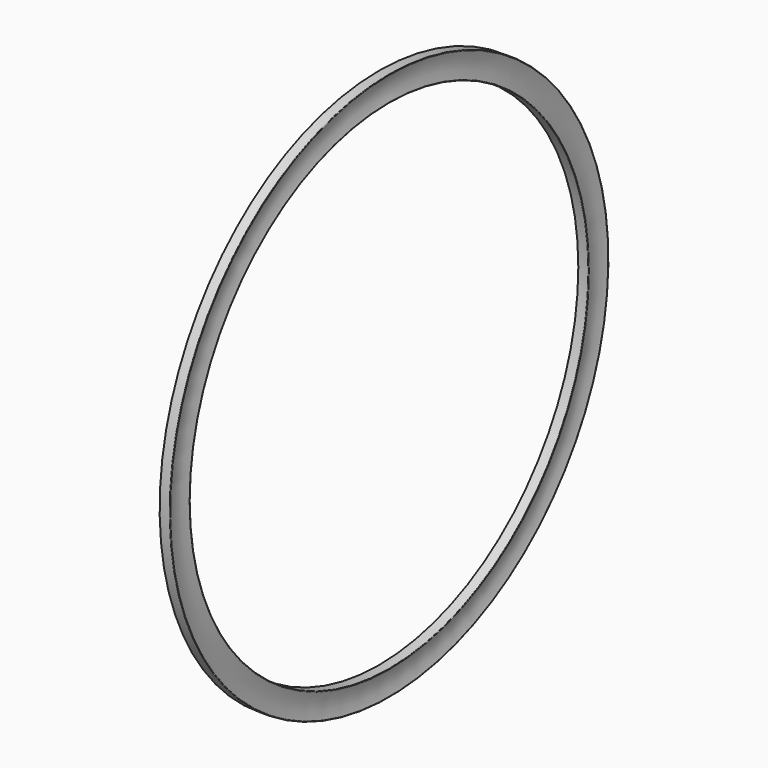
from build123d import *


with BuildPart() as f1:
    # F0 (on Front) → F1 (revolve)
    with BuildSketch(Plane.XZ):
        with BuildLine():
            ThreePointArc((-0.036947, 50.876152), (-0.04654, 50.945573), (-0.108772, 50.9778))
            Line((-0.108772, 50.9778), (-1.943022, 50.9778))
            Line((-1.943022, 50.9778), (-1.943022, 46.3296))
            Line((-1.943022, 46.3296), (-0.108772, 46.3296))
            ThreePointArc((-0.108772, 46.3296), (-0.04654, 46.361827), (-0.036947, 46.431248))
            ThreePointArc((-0.036947, 46.431248), (-0.419022, 48.6537), (-0.036947, 50.876152))
        make_face()
    revolve(axis=Axis((-3.079263, 0, 0), (-1, 0, 0)))


solid = f1.part
